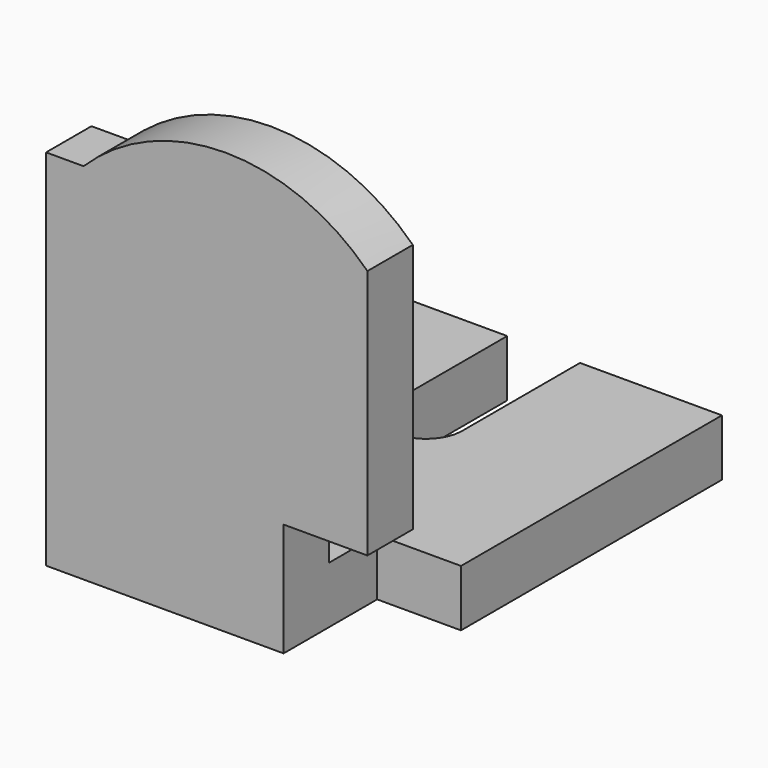
from build123d import *

# Parameters (mm, degrees)
F0_W     = 11.9395153597
F0_H     = 19.9415329844
F1_DEPTH = 10
F3_DEPTH = 10
F4_W     = 14.7805297747
F4_H     = 20.6165611744
F5_DEPTH = 20


with BuildPart() as f1:
    # F0 (on Top) → F1 (new body)
    with BuildSketch(Plane.XY):
        with BuildLine():
            Line((-31.6270180047, 78.1149193645), (-31.6270180047, 0))
            Line((-31.6270180047, 0), (13.082661666, 0))
            Line((13.082661666, 0), (13.082661666, 19.9415329844))
            Line((13.082661666, 19.9415329844), (25.0221770257, 19.9415329844))
            Line((25.0221770257, 19.9415329844), (25.0221770257, 78.1149193645))
            Line((25.0221770257, 78.1149193645), (0, 78.1149193645))
            Line((0, 78.1149193645), (0, 52.2036328912))
            ThreePointArc((0, 52.2036328912), (-6.414314732, 45.7893181592), (-12.8286294639, 52.2036328912))
            Line((-12.8286294639, 52.2036328912), (-12.8286294639, 78.1149193645))
            Line((-12.8286294639, 78.1149193645), (-31.6270180047, 78.1149193645))
        make_face()
        with Locations((19.0524193458, 9.9707664922)):
            Rectangle(F0_W, F0_H)
    extrude(amount=F1_DEPTH)

    # F2 (on Front) → F3 (join)
    with BuildSketch(Plane.XZ):
        Polygon((-31.6270180047, 0), (25.0221770257, 0), (25.0221770257, 64.1431510448), (-25.0221770257, 64.1431510448), (-31.6270180047, 64.1431510448), align=None)
        with BuildLine():
            Line((-25.0221770257, 64.1431510448), (25.0221770257, 64.1431510448))
            ThreePointArc((25.0221770257, 64.1431510448), (0, 74.3970859516), (-25.0221770257, 64.1431510448))
        make_face()
    extrude(amount=-F3_DEPTH)

    # F4 (on Top) → F5 (cut)
    with BuildSketch(Plane.XY):
        with Locations((17.6329123788, 10.3082805872)):
            Rectangle(F4_W, F4_H)
    extrude(amount=F5_DEPTH, mode=Mode.SUBTRACT)


solid = f1.part
